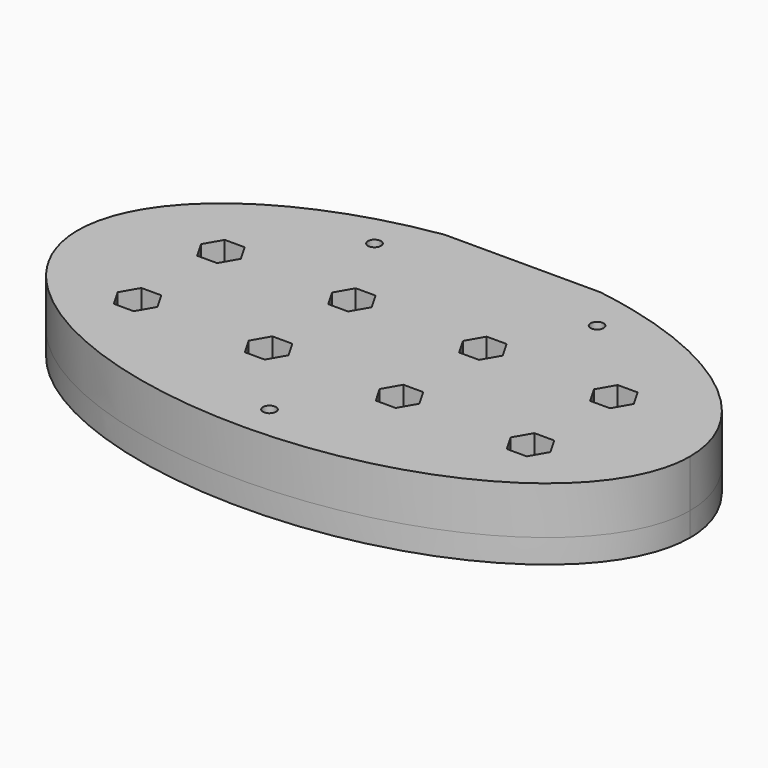
from build123d import *

# Parameters (mm, degrees)
PAD_DEPTH       = 6
POCKET_DEPTH    = 3
PAD001_DEPTH    = 3
SKETCH003_W     = 66
SKETCH003_H     = 2.77
POCKET001_DEPTH = 3
SKETCH004_W     = 19.6
SKETCH004_H     = 1
POCKET002_DEPTH = 9.001
SKETCH005_R     = 0.82
POCKET003_DEPTH = 9.001
POCKET004_DEPTH = 9.001


with BuildPart() as part:
    # Sketch → Pad (new body)
    with BuildSketch(Plane.XY):
        with BuildLine():
            add(Edge.make_bspline(
                [(38.5, 0), (38.5, 38.971143), (-19.25, 19.485572), (-77, 0), (-19.25, -19.485572), (38.5, -38.971143), (38.5, 0)],
                knots=[0, 0, 0, 2.094395, 2.094395, 4.18879, 4.18879, 6.283185, 6.283185, 6.283185], degree=2, weights=[1, 0.5, 1, 0.5, 1, 0.5, 1]))
        make_face()
    extrude(amount=PAD_DEPTH)

    # Sketch001 (on Face2 of Pad) → Pocket (cut)
    with BuildSketch(Plane(origin=(0, 0, 0), x_dir=(1, 0, 0), z_dir=(0, 0, -1))):
        Polygon((9.55, -3.696801), (9.55, -21.796801), (-9.55, -21.796801), (-9.55, -3.696801), (-33, -3.696801), (-33, 6.303199), (33, 6.303199), (33, -3.696801), align=None)
    extrude(amount=-POCKET_DEPTH, mode=Mode.SUBTRACT)

    # Sketch002 (on Face2 of Pocket) → Pad001 (join)
    with BuildSketch(Plane(origin=(0, 0, 0), x_dir=(1, 0, 0), z_dir=(0, 0, -1))):
        with BuildLine():
            add(Edge.make_bspline(
                [(38.5, 0), (38.5, 38.971143), (-19.25, 19.485572), (-77, 0), (-19.25, -19.485572), (38.5, -38.971143), (38.5, 0)],
                knots=[0, 0, 0, 2.094395, 2.094395, 4.18879, 4.18879, 6.283185, 6.283185, 6.283185], degree=2, weights=[1, 0.5, 1, 0.5, 1, 0.5, 1]))
        make_face()
    extrude(amount=PAD001_DEPTH)

    # Sketch003 (on Face4 of Pad001) → Pocket001 (cut)
    with BuildSketch(Plane(origin=(0, 0, -3), x_dir=(1, 0, 0), z_dir=(0, 0, -1))):
        with Locations((0, 1.303199)):
            Rectangle(SKETCH003_W, SKETCH003_H)
    extrude(amount=-POCKET001_DEPTH, mode=Mode.SUBTRACT)

    # Sketch004 (on Face4 of Pocket001) → Pocket002 (cut, through all)
    with BuildSketch(Plane(origin=(0, 0, -3), x_dir=(1, 0, 0), z_dir=(0, 0, -1))):
        with Locations((0, -22.258868)):
            Rectangle(SKETCH004_W, SKETCH004_H)
    extrude(amount=-POCKET002_DEPTH, mode=Mode.SUBTRACT)

    # Sketch005 (on Face4 of Pocket002) → Pocket003 (cut, through all)
    with BuildSketch(Plane.XY.offset(6)):
        with Locations((-14, 16)):
            Circle(SKETCH005_R)
        with Locations((14, 16)):
            Circle(SKETCH005_R)
        with Locations((0, -18)):
            Circle(SKETCH005_R)
    extrude(amount=-POCKET003_DEPTH, mode=Mode.SUBTRACT)

    # Sketch006 (on Face7 of Pocket003) → Pocket004 (cut, through all)
    with BuildSketch(Plane(origin=(0, 0, -3), x_dir=(1, 0, 0), z_dir=(0, 0, -1))):
        Polygon((-22.21, -5.246865), (-23.46, -3.081801), (-25.96, -3.081801), (-27.21, -5.246865), (-25.96, -7.411928), (-23.46, -7.411928), align=None)
        Polygon((-23.46, 5.688199), (-22.21, 7.853262), (-23.46, 10.018326), (-25.96, 10.018326), (-27.21, 7.853262), (-25.96, 5.688199), align=None)
        Polygon((-5.735, -5.246865), (-6.985, -3.081801), (-9.485, -3.081801), (-10.735, -5.246865), (-9.485, -7.411928), (-6.985, -7.411928), align=None)
        Polygon((-9.485, 5.688199), (-6.985, 5.688199), (-5.735, 7.853262), (-6.985, 10.018326), (-9.485, 10.018326), (-10.735, 7.853262), align=None)
        Polygon((10.735, -5.246865), (9.485, -3.081801), (6.985, -3.081801), (5.735, -5.246865), (6.985, -7.411928), (9.485, -7.411928), align=None)
        Polygon((9.485, 5.688199), (10.735, 7.853262), (9.485, 10.018326), (6.985, 10.018326), (5.735, 7.853262), (6.985, 5.688199), align=None)
        Polygon((27.21, -5.246865), (25.96, -3.081801), (23.46, -3.081801), (22.21, -5.246865), (23.46, -7.411928), (25.96, -7.411928), align=None)
        Polygon((25.96, 5.688199), (27.21, 7.853262), (25.96, 10.018326), (23.46, 10.018326), (22.21, 7.853262), (23.46, 5.688199), align=None)
    extrude(amount=-POCKET004_DEPTH, mode=Mode.SUBTRACT)


solid = part.part
